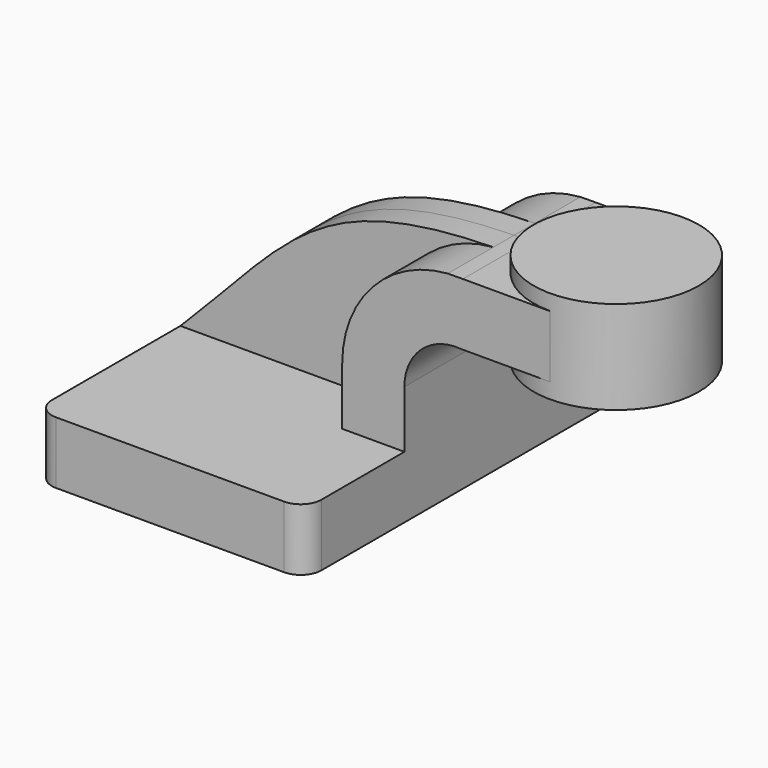
from build123d import *

# Parameters (mm, degrees)
F1_DEPTH = 63.5
F2_DEPTH = 25.4
F3_DEPTH = 7.9375
F0_W     = 25.4945200562
F0_H     = 19.05
F4_DEPTH = 25.4
F6_R     = 6.35


with BuildPart() as f1:
    # F0 (on Front) → F1 (new body, symmetric)
    with BuildSketch(Plane.XZ):
        Polygon((41.275, -9.525), (41.275, 9.525), (22.225, 9.525), (-41.275, 9.525), (-41.275, -9.525), align=None)
    extrude(amount=F1_DEPTH, both=True)

    # F0 (on Front) → F2 (join, symmetric)
    with BuildSketch(Plane.XZ):
        with BuildLine():
            Line((22.225, 9.525), (41.275, 9.525))
            Line((41.275, 9.525), (41.275, 27.0584095458))
            ThreePointArc((41.275, 27.0584095458), (46.4156191601, 38.7540793849), (58.5082211633, 42.8752))
            Line((58.5082211633, 42.8752), (60.325, 42.8752))
            Line((60.325, 42.8752), (60.325, 61.9252))
            Line((60.325, 61.9252), (59.1655764496, 61.9252))
            add(Edge.make_bspline(
                [(54.5329264401, 61.8852174814), (56.041241649, 61.9118488453), (57.5849624427, 61.9252), (59.1655764496, 61.9252)],
                knots=[110.2611541265, 110.2611541265, 110.2611541265, 110.2611541265, 113.2876443288, 113.2876443288, 113.2876443288, 113.2876443288], degree=3))
            ThreePointArc((54.5329264401, 61.8852174814), (31.5457335676, 50.8108234328), (22.225, 27.0584095458))
            Line((22.225, 27.0584095458), (22.225, 9.525))
        make_face()
    extrude(amount=F2_DEPTH, both=True)

    # F0 (on Front) → F3 (join, symmetric)
    with BuildSketch(Plane.XZ):
        with BuildLine():
            Line((-41.275, 9.525), (22.225, 9.525))
            Line((22.225, 9.525), (22.225, 27.0584095458))
            ThreePointArc((22.225, 27.0584095458), (31.5457335676, 50.8108234328), (54.5329264401, 61.8852174814))
            add(Edge.make_bspline(
                [(-41.275, 9.525), (-8.3754615169, 42.3180313799), (-0.4180446882, 60.9149830772), (54.5329264401, 61.8852174814)],
                knots=[0, 0, 0, 0, 110.2611541265, 110.2611541265, 110.2611541265, 110.2611541265], degree=3))
        make_face()
    extrude(amount=F3_DEPTH, both=True)

    # F0 (on Front) → F4 (join, symmetric)
    with BuildSketch(Plane.XZ):
        with Locations((73.0722600281, 52.4002)):
            Rectangle(F0_W, F0_H)
    extrude(amount=F4_DEPTH, both=True)

    # F0 (on Front) → F5 (revolve)
    with BuildSketch(Plane.XZ):
        Polygon((85.8195200562, 61.9252), (85.8195200562, 42.8752), (85.8195200562, 38.1), (111.125, 38.1), (111.125, 66.675), (85.8195200562, 66.675), align=None)
    revolve(axis=Axis((85.8195200562, 0, 52.3875), (0, 0, 1)))

    # F6
    f6_edges = [f1.edges().sort_by_distance(p)[0] for p in [
        (41.275, -63.5, 0),
        (-41.275, -63.5, 0),
        (41.275, 63.5, 0),
        (-41.275, 63.5, 0),
    ]]
    fillet(f6_edges, radius=F6_R)


solid = f1.part
